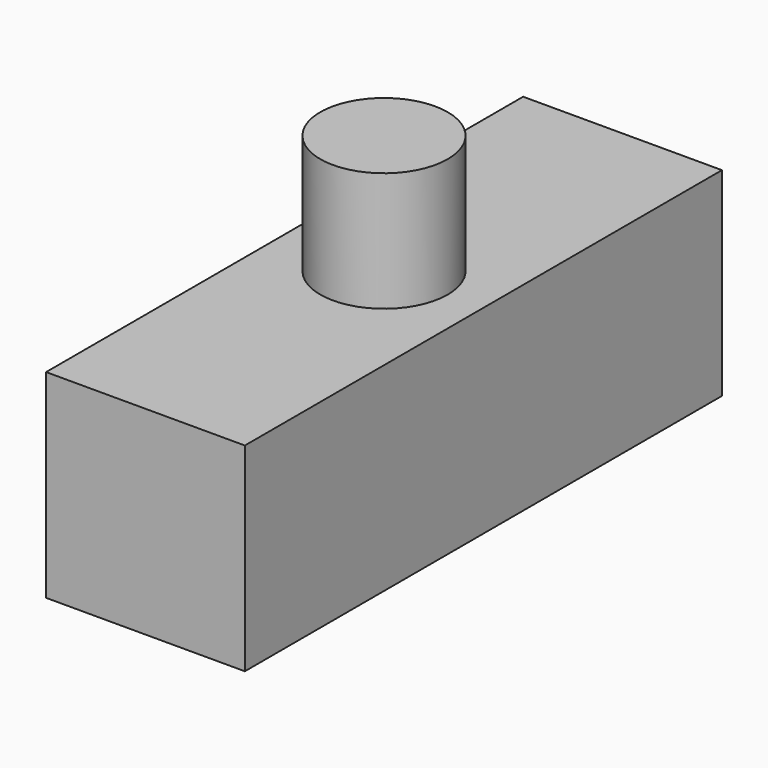
from build123d import *

# Parameters (mm, degrees)
F1_R     = 12.209968
F2_DEPTH = 41.91
F0_W     = 114.3
F0_H     = 38.1
F3_DEPTH = 19.05


with BuildPart() as f2:
    # F1 (on Top) → F2 (new body)
    with BuildSketch(Plane.XY):
        Circle(F1_R)
    extrude(amount=F2_DEPTH)

    # F0 (on Right) → F3 (join, symmetric)
    with BuildSketch(Plane.YZ):
        Rectangle(F0_W, F0_H)
    extrude(amount=F3_DEPTH, both=True)


solid = f2.part
